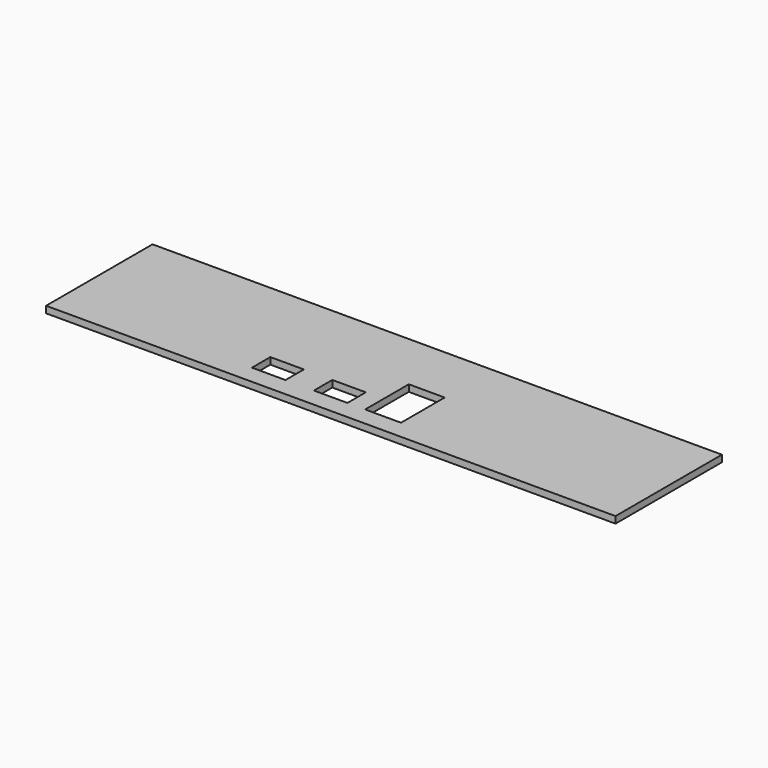
from build123d import *

# Parameters (mm, degrees)
F0_W     = 151.13
F0_H     = 35.306
F1_DEPTH = 1.778
F2_W     = 151.13
F2_H     = 35.306
F4_DEPTH = 1.778
F3_W     = 8.89
F3_H     = 6.096
F3_W_2   = 9.525
F3_H_2   = 14.478
F5_DEPTH = 2.54


with BuildPart() as f1:
    # F0 (on Top) → F1 (new body)
    with BuildSketch(Plane.XY):
        with Locations((-0.822666, -120.916817)):
            Rectangle(F0_W, F0_H)
    extrude(amount=F1_DEPTH)


with BuildPart() as f4:
    # F2 (on Top) → F4 (new body)
    with BuildSketch(Plane.XY):
        Rectangle(F2_W, F2_H)
    extrude(amount=F4_DEPTH)

    # F3 (on face) → F5 (cut)
    with BuildSketch(Plane.XY):
        with Locations((-3.99227, -9.652)):
            Rectangle(F3_W, F3_H)
        with Locations((-20.438026, -9.652)):
            Rectangle(F3_W, F3_H)
        with Locations((9.91423, -5.461)):
            Rectangle(F3_W_2, F3_H_2)
    extrude(amount=F5_DEPTH, mode=Mode.SUBTRACT)


solid = f4.part
